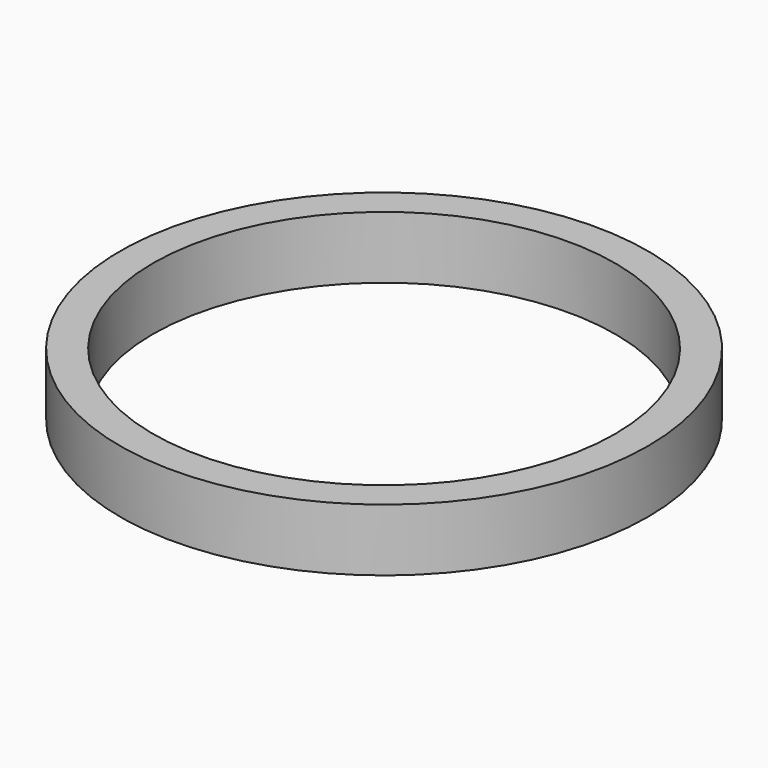
from build123d import *

# Parameters (mm, degrees)
SKETCH_R   = 40.3225
SKETCH_R_2 = 35.306
PAD_DEPTH  = 9.525


with BuildPart() as part:
    # Sketch → Pad (new body)
    with BuildSketch(Plane.XY):
        Circle(SKETCH_R)
        Circle(SKETCH_R_2, mode=Mode.SUBTRACT)
    extrude(amount=PAD_DEPTH)


solid = part.part
